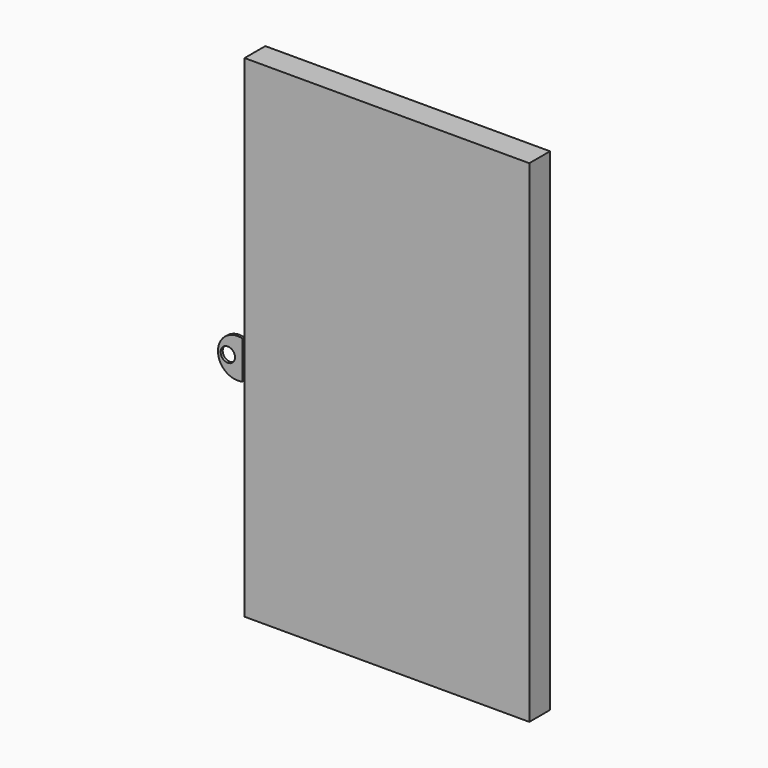
from build123d import *

# Parameters (mm, degrees)
F0_W     = 279.4
F0_H     = 482.6
F1_DEPTH = 25.4
F2_T     = -2.54
F3_R     = 7.0739
F4_DEPTH = 2.54


with BuildPart() as f1:
    # F0 (on Front) → F1 (new body)
    with BuildSketch(Plane.XZ):
        with Locations((10.4161884375, 0)):
            Rectangle(F0_W, F0_H)
    extrude(amount=F1_DEPTH)

    # F2
    f2_openings = [f1.faces().sort_by_distance(p)[0] for p in [
        (10.416188, 0, 0),
    ]]
    offset(amount=F2_T, openings=f2_openings)


with BuildPart() as f4:
    # F3 (on face) → F4 (new body)
    with BuildSketch(Plane.XZ.offset(25.4)):
        with BuildLine():
            Line((-129.2838115625, -37.1448050436), (-129.2838115625, 0))
            ThreePointArc((-129.2838115625, 0), (-153.3645340536, -18.5724025218), (-129.2838115625, -37.1448050436))
        make_face()
        with Locations((-143.6831951141, -18.5724025218)):
            Circle(F3_R, mode=Mode.SUBTRACT)
    extrude(amount=F4_DEPTH)


solid = Compound([f1.part, f4.part])
